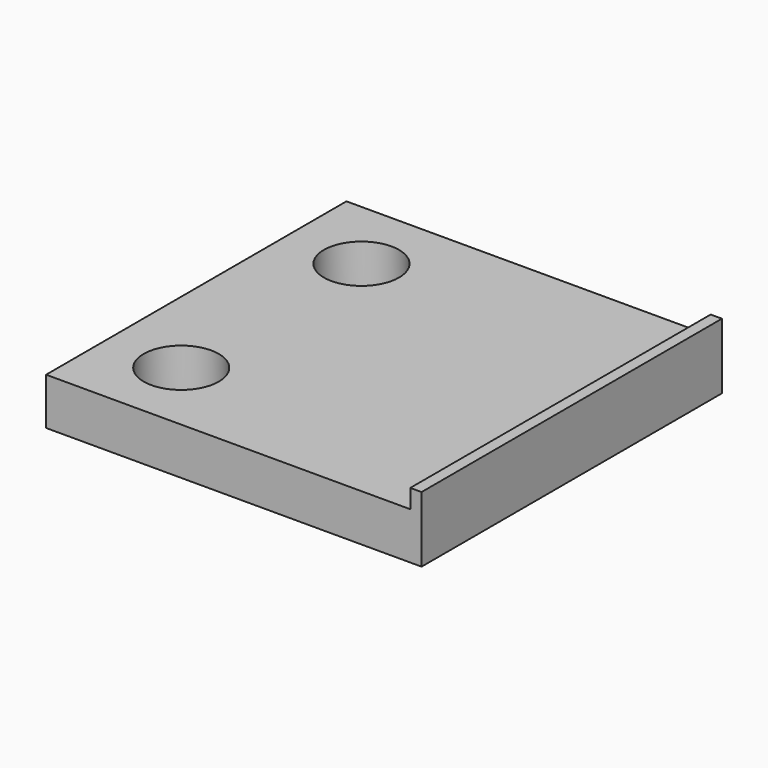
from build123d import *

# Parameters (mm, degrees)
F0_W     = 0.762
F0_H     = 1.27
F1_DEPTH = 12.7
F2_R     = 2.54
F3_DEPTH = 4.446


with BuildPart() as f1:
    # F0 (on Front) → F1 (new body, symmetric)
    with BuildSketch(Plane.XZ):
        Polygon((11.938, 1.5875), (-12.7, 1.5875), (-12.7, -1.5875), (12.7, -1.5875), (12.7, 1.5875), align=None)
        with Locations((12.319, 2.2225)):
            Rectangle(F0_W, F0_H)
    extrude(amount=F1_DEPTH, both=True)

    # F2 (on face) → F3 (cut, through all)
    with BuildSketch(Plane(origin=(0, 0, -1.5875), x_dir=(1, 0, 0), z_dir=(0, 0, -1))):
        with Locations((-7.62, 7.62)):
            Circle(F2_R)
        with Locations((-7.62, -7.62)):
            Circle(F2_R)
    extrude(amount=-F3_DEPTH, mode=Mode.SUBTRACT)


solid = f1.part
